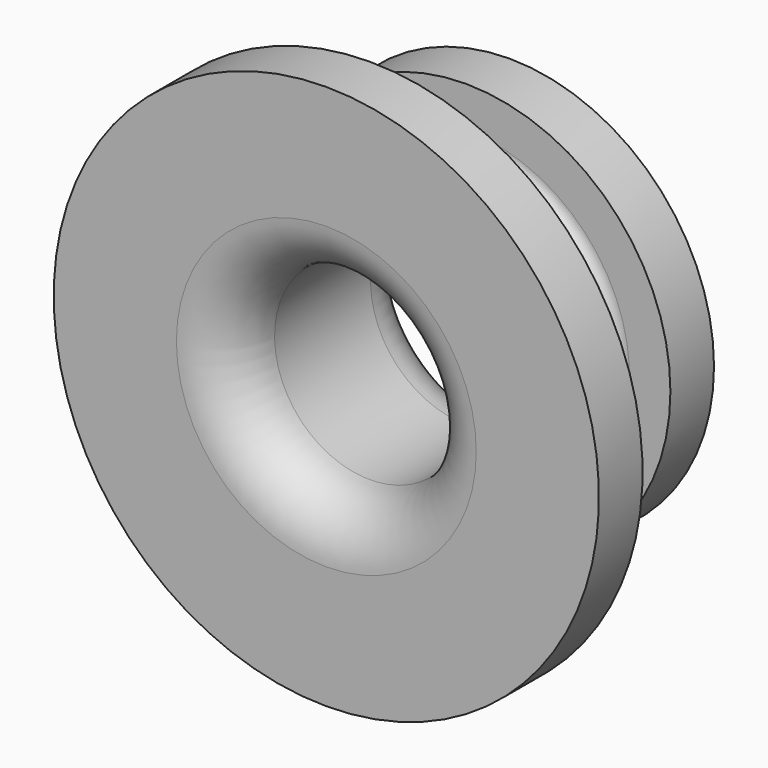
from build123d import *


with BuildPart() as f1:
    # F0 (on Right) → F1 (revolve)
    with BuildSketch(Plane.YZ):
        with BuildLine():
            Line((1, 3), (1, 5))
            Line((1, 5), (0, 5))
            Line((0, 5), (0, 2.75))
            ThreePointArc((0, 2.75), (0.292893, 2.042893), (1, 1.75))
            Line((1, 1.75), (3.2, 1.75))
            ThreePointArc((3.2, 1.75), (3.907107, 2.042893), (4.2, 2.75))
            Line((4.2, 2.75), (4.2, 3.75))
            Line((4.2, 3.75), (3.2, 3.75))
            Line((3.2, 3.75), (3.2, 3))
            ThreePointArc((3.2, 3), (3.126777, 2.823223), (2.95, 2.75))
            Line((2.95, 2.75), (1.25, 2.75))
            ThreePointArc((1.25, 2.75), (1.073223, 2.823223), (1, 3))
        make_face()
    revolve(axis=Axis((0, 2.1, 0), (0, 1, 0)))


solid = f1.part
